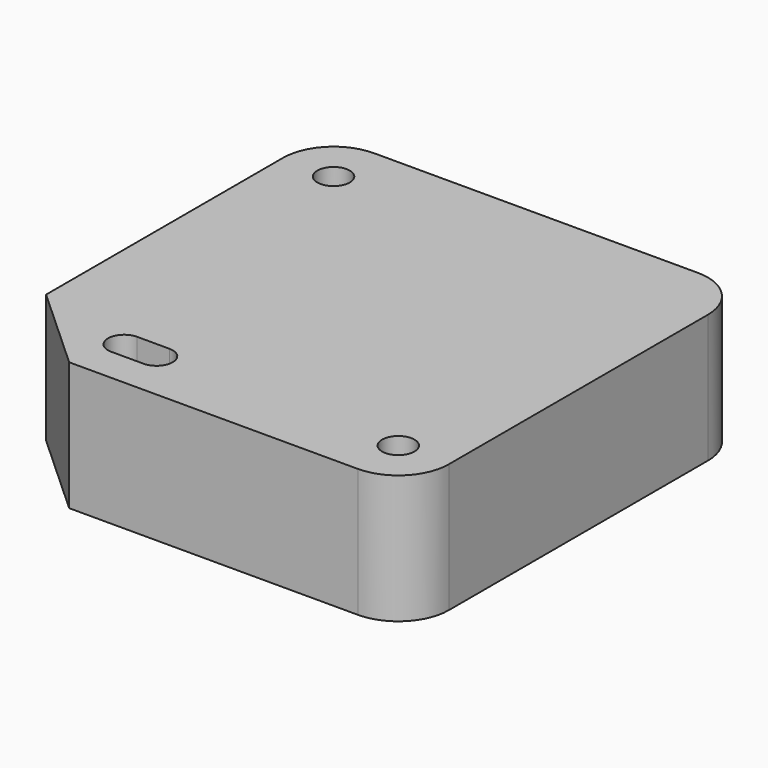
from build123d import *

# Parameters (mm, degrees)
F0_R     = 1.6
F1_DEPTH = 12.7


with BuildPart() as f1:
    # F0 (on Top) → F1 (new body)
    with BuildSketch(Plane.XY):
        with BuildLine():
            ThreePointArc((21, 16), (19.535534, 19.535534), (16, 21))
            Line((16, 21), (-16, 21))
            ThreePointArc((-16, 21), (-19.535534, 19.535534), (-21, 16))
            Line((-21, 16), (-21, -13.278688))
            Line((-21, -13.278688), (-12.540984, -21))
            Line((-12.540984, -21), (16, -21))
            ThreePointArc((16, -21), (19.535534, -19.535534), (21, -16))
            Line((21, -16), (21, 16))
        make_face()
        with BuildLine():
            ThreePointArc((-11.1, -17.6), (-12.7, -16), (-11.1, -14.4))
            Line((-11.1, -14.4), (-7.9, -14.4))
            ThreePointArc((-7.9, -14.4), (-6.3, -16), (-7.9, -17.6))
            Line((-7.9, -17.6), (-11.1, -17.6))
        make_face(mode=Mode.SUBTRACT)
        with Locations((16, -16)):
            Circle(F0_R, mode=Mode.SUBTRACT)
        with Locations((-16, 16)):
            Circle(F0_R, mode=Mode.SUBTRACT)
    extrude(amount=F1_DEPTH)


solid = f1.part
